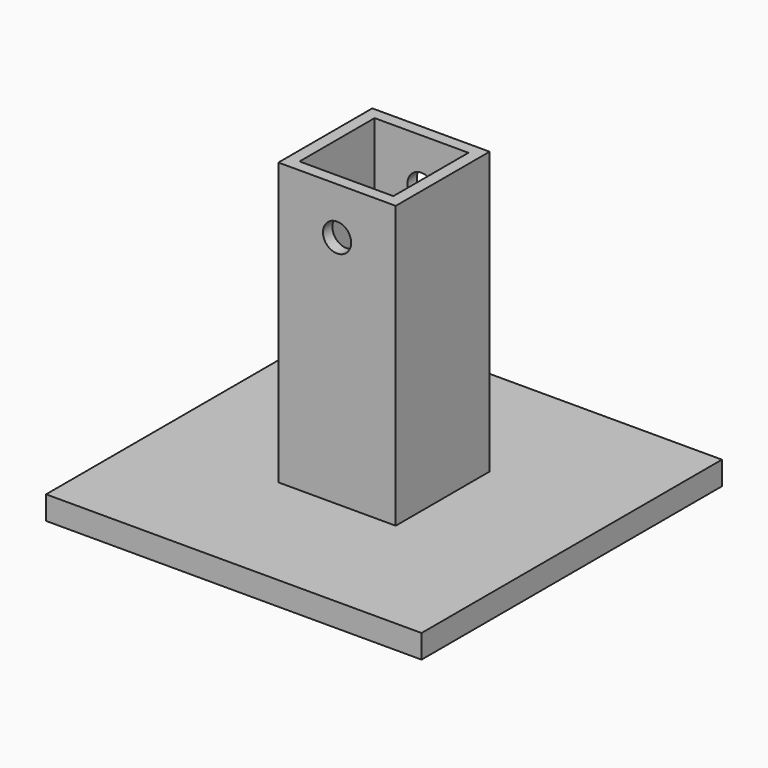
from build123d import *

# Parameters (mm, degrees)
F0_W     = 101.6
F0_H     = 101.6
F1_DEPTH = 6.35
F2_W     = 31.75
F2_H     = 31.75
F2_W_2   = 25.4
F2_H_2   = 25.4
F3_DEPTH = 76.2
F4_R     = 3.81
F5_DEPTH = 66.676


with BuildPart() as f1:
    # F0 (on Top) → F1 (new body)
    with BuildSketch(Plane.XY):
        Rectangle(F0_W, F0_H)
    extrude(amount=F1_DEPTH)

    # F2 (on face) → F3 (join)
    with BuildSketch(Plane.XY.offset(6.35)):
        Rectangle(F2_W, F2_H)
        Rectangle(F2_W_2, F2_H_2, mode=Mode.SUBTRACT)
    extrude(amount=F3_DEPTH)

    # F4 (on face) → F5 (cut, through all)
    with BuildSketch(Plane.XZ.offset(15.875)):
        with Locations((0, 69.85)):
            Circle(F4_R)
    extrude(amount=-F5_DEPTH, mode=Mode.SUBTRACT)


solid = f1.part
